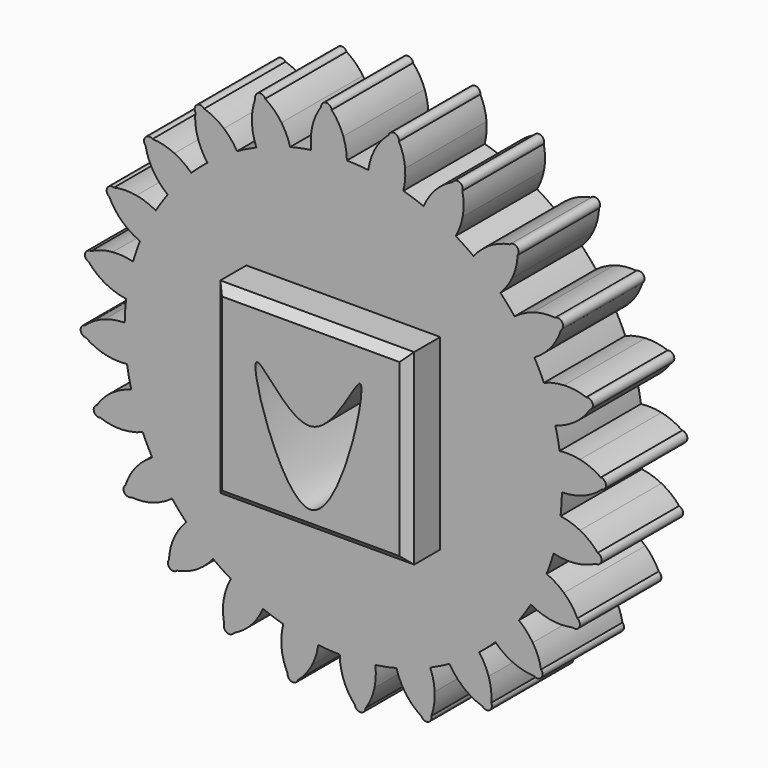
from build123d import *

# Parameters (mm, degrees)
F0_W     = 47.6354919374
F0_H     = 45.9833927453
F1_DEPTH = 25
F2_COUNT = 24
F3_DEPTH = 35
F4_SIZE  = 2


with BuildPart() as f1:
    # F0 (on Front) → F1 (new body)
    with BuildSketch(Plane.XZ):
        with BuildLine():
            ThreePointArc((-7.8842675869, 53.139290225), (-35.0884247435, -40.6785974441), (53.721, 0))
            ThreePointArc((53.721, 0), (38.2966086664, 37.6738052983), (0.8807473744, 53.7137796572))
            ThreePointArc((0.8807473744, 53.7137796572), (-3.5135215054, 53.6059792153), (-7.8842675869, 53.139290225))
        make_face()
        Rectangle(F0_W, F0_H, mode=Mode.SUBTRACT)
        with BuildLine():
            ThreePointArc((-7.8842675869, 53.139290225), (-3.5135215054, 53.6059792153), (0.8807473744, 53.7137796572))
            ThreePointArc((0.8807473744, 53.7137796572), (0.6444216491, 56.2301210228), (0, 58.674))
            ThreePointArc((0, 58.674), (-1.188832718, 61.1984634544), (-2.8564405638, 63.4357213824))
            ThreePointArc((-2.8564405638, 63.4357213824), (-4.2307667448, 64.5490269071), (-5.448019844, 63.2658603022))
            ThreePointArc((-5.448019844, 63.2658603022), (-6.8093403151, 60.8300759237), (-7.6584938023, 58.1720357962))
            ThreePointArc((-7.6584938023, 58.1720357962), (-7.9784121177, 55.6649506385), (-7.8842675869, 53.139290225))
        make_face()
    extrude(amount=F1_DEPTH)


with BuildPart() as f2_1:
    # F2: instance of F1
    add(f1.part.rotate(Axis((0, 0, 0), (0, 1, 0)), 1 * 360 / F2_COUNT))


with BuildPart() as f2_2:
    # F2: instance of F1
    add(f1.part.rotate(Axis((0, 0, 0), (0, 1, 0)), 2 * 360 / F2_COUNT))


with BuildPart() as f2_3:
    # F2: instance of F1
    add(f1.part.rotate(Axis((0, 0, 0), (0, 1, 0)), 3 * 360 / F2_COUNT))


with BuildPart() as f2_4:
    # F2: instance of F1
    add(f1.part.rotate(Axis((0, 0, 0), (0, 1, 0)), 4 * 360 / F2_COUNT))


with BuildPart() as f2_5:
    # F2: instance of F1
    add(f1.part.rotate(Axis((0, 0, 0), (0, 1, 0)), 5 * 360 / F2_COUNT))


with BuildPart() as f2_6:
    # F2: instance of F1
    add(f1.part.rotate(Axis((0, 0, 0), (0, 1, 0)), 6 * 360 / F2_COUNT))


with BuildPart() as f2_7:
    # F2: instance of F1
    add(f1.part.rotate(Axis((0, 0, 0), (0, 1, 0)), 7 * 360 / F2_COUNT))


with BuildPart() as f2_8:
    # F2: instance of F1
    add(f1.part.rotate(Axis((0, 0, 0), (0, 1, 0)), 8 * 360 / F2_COUNT))


with BuildPart() as f2_9:
    # F2: instance of F1
    add(f1.part.rotate(Axis((0, 0, 0), (0, 1, 0)), 9 * 360 / F2_COUNT))


with BuildPart() as f2_10:
    # F2: instance of F1
    add(f1.part.rotate(Axis((0, 0, 0), (0, 1, 0)), 10 * 360 / F2_COUNT))


with BuildPart() as f2_11:
    # F2: instance of F1
    add(f1.part.rotate(Axis((0, 0, 0), (0, 1, 0)), 11 * 360 / F2_COUNT))


with BuildPart() as f2_12:
    # F2: instance of F1
    add(f1.part.rotate(Axis((0, 0, 0), (0, 1, 0)), 12 * 360 / F2_COUNT))


with BuildPart() as f2_13:
    # F2: instance of F1
    add(f1.part.rotate(Axis((0, 0, 0), (0, 1, 0)), 13 * 360 / F2_COUNT))


with BuildPart() as f2_14:
    # F2: instance of F1
    add(f1.part.rotate(Axis((0, 0, 0), (0, 1, 0)), 14 * 360 / F2_COUNT))


with BuildPart() as f2_15:
    # F2: instance of F1
    add(f1.part.rotate(Axis((0, 0, 0), (0, 1, 0)), 15 * 360 / F2_COUNT))


with BuildPart() as f2_16:
    # F2: instance of F1
    add(f1.part.rotate(Axis((0, 0, 0), (0, 1, 0)), 16 * 360 / F2_COUNT))


with BuildPart() as f2_17:
    # F2: instance of F1
    add(f1.part.rotate(Axis((0, 0, 0), (0, 1, 0)), 17 * 360 / F2_COUNT))


with BuildPart() as f2_18:
    # F2: instance of F1
    add(f1.part.rotate(Axis((0, 0, 0), (0, 1, 0)), 18 * 360 / F2_COUNT))


with BuildPart() as f2_19:
    # F2: instance of F1
    add(f1.part.rotate(Axis((0, 0, 0), (0, 1, 0)), 19 * 360 / F2_COUNT))


with BuildPart() as f2_20:
    # F2: instance of F1
    add(f1.part.rotate(Axis((0, 0, 0), (0, 1, 0)), 20 * 360 / F2_COUNT))


with BuildPart() as f2_21:
    # F2: instance of F1
    add(f1.part.rotate(Axis((0, 0, 0), (0, 1, 0)), 21 * 360 / F2_COUNT))


with BuildPart() as f2_22:
    # F2: instance of F1
    add(f1.part.rotate(Axis((0, 0, 0), (0, 1, 0)), 22 * 360 / F2_COUNT))


with BuildPart() as f2_23:
    # F2: instance of F1
    add(f1.part.rotate(Axis((0, 0, 0), (0, 1, 0)), 23 * 360 / F2_COUNT))


with BuildPart() as f1_1:
    add(f1.part)

    add(f2_1.part)  # F3 merges F2_1

    add(f2_2.part)  # F3 merges F2_2

    add(f2_3.part)  # F3 merges F2_3

    add(f2_4.part)  # F3 merges F2_4

    add(f2_5.part)  # F3 merges F2_5

    add(f2_6.part)  # F3 merges F2_6

    add(f2_7.part)  # F3 merges F2_7

    add(f2_8.part)  # F3 merges F2_8

    add(f2_9.part)  # F3 merges F2_9

    add(f2_10.part)  # F3 merges F2_10

    add(f2_11.part)  # F3 merges F2_11

    add(f2_12.part)  # F3 merges F2_12

    add(f2_13.part)  # F3 merges F2_13

    add(f2_14.part)  # F3 merges F2_14

    add(f2_15.part)  # F3 merges F2_15

    add(f2_16.part)  # F3 merges F2_16

    add(f2_17.part)  # F3 merges F2_17

    add(f2_18.part)  # F3 merges F2_18

    add(f2_19.part)  # F3 merges F2_19

    add(f2_20.part)  # F3 merges F2_20

    add(f2_21.part)  # F3 merges F2_21

    add(f2_22.part)  # F3 merges F2_22

    add(f2_23.part)  # F3 merges F2_23
    # F0 (on Front) → F3 (join)
    with BuildSketch(Plane.XZ):
        Rectangle(F0_W, F0_H)
        with BuildLine():
            add(Edge.make_bspline(
                [(0, 0), (5.977603906, 0.5568687699), (18.3287253509, 32.878632874), (1.3080243344, -45.552466636), (-20.882127807, 26.5649050766), (-5.716139316, -0.5325109391), (0, 0)],
                knots=[0, 0, 0, 0, 0.2160315095, 0.5111237473, 0.7934178603, 1, 1, 1, 1], degree=3))
        make_face(mode=Mode.SUBTRACT)
    extrude(amount=F3_DEPTH)

    # F4
    f4_edges = [f1_1.edges().sort_by_distance(p)[0] for p in [
        (0, -35, 22.991696),
        (-23.817746, -35, 0),
        (0, -35, -22.991696),
        (23.817746, -35, 0),
    ]]
    chamfer(f4_edges, length=F4_SIZE)


solid = f1_1.part
